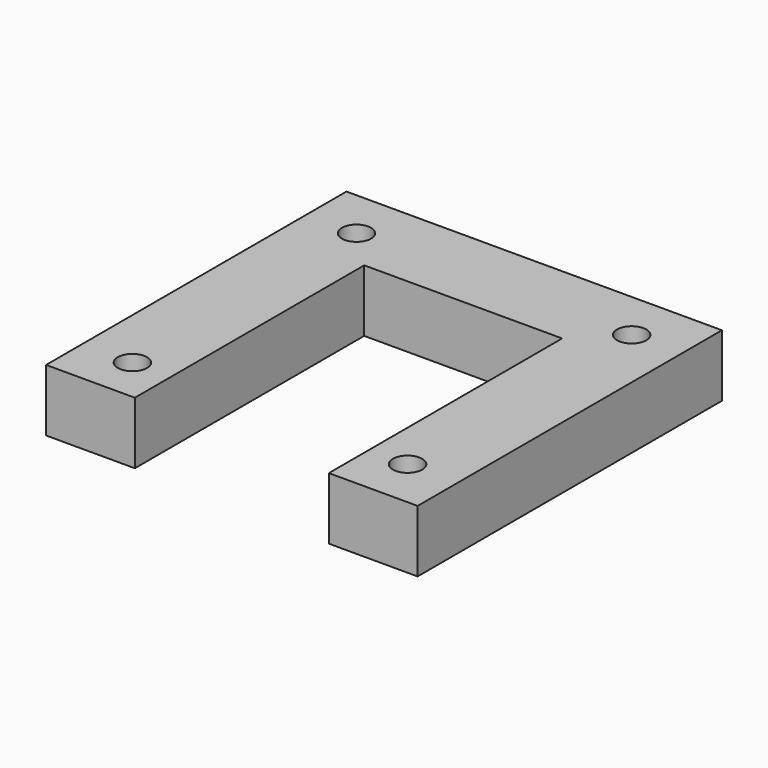
from build123d import *

# Parameters (mm, degrees)
F0_W     = 10
F0_H     = 10
F0_W_2   = 22.3
F0_H_2   = 32.3
F0_H_3   = 32.8545699317
F1_DEPTH = 7
F2_D     = 3.3


with BuildPart() as f1:
    # F0 (on Top) → F1 (new body)
    with BuildSketch(Plane.XY):
        with Locations((-15.4388597772, 17.3551567454)):
            Rectangle(F0_W, F0_H)
        with Locations((0.7111402228, 17.3551567454)):
            Rectangle(F0_W_2, F0_H)
        with Locations((-15.4388597772, -3.7948432546)):
            Rectangle(F0_W, F0_H_2)
        with Locations((16.8611402228, 17.3551567454)):
            Rectangle(F0_W, F0_H)
        with Locations((16.8611402228, -4.0721282204)):
            Rectangle(F0_W, F0_H_3)
    extrude(amount=F1_DEPTH)

    # F2 (through all)
    with Locations(Plane(origin=(0, 0, 0), x_dir=(1, 0, 0), z_dir=(0, 0, -1))):
        with Locations((-14.7888597772, -16.7051567454), (16.2111402228, -16.7051567454), (-14.7888597772, 14.8494131863), (16.2111402228, 14.8494131863)):
            Hole(F2_D / 2)


solid = f1.part
